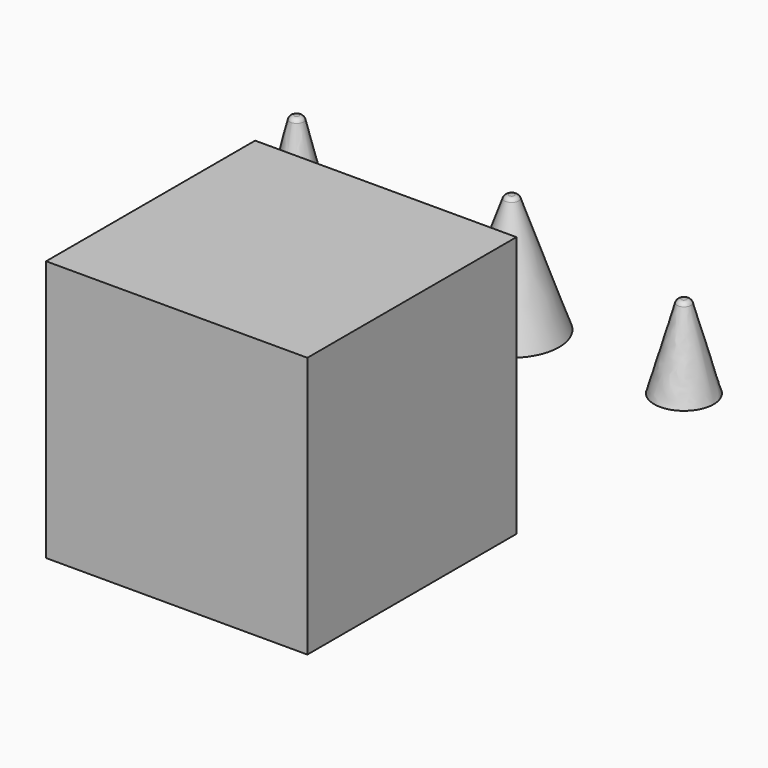
from build123d import *

# Parameters (mm, degrees)
F0_R      = 4
F4_R      = 0.5
F0_R_2    = 3
F0_R_3    = 2.5
F3_R      = 0.5
F8_R      = 0.4
F8_2_R    = 0.4
F8_3_R    = 0.4
F9_W      = 22
F9_H      = 22
F10_DEPTH = 22


with BuildPart() as f5:
    # F0 (on Top) → F5 section 0
    with BuildSketch(Plane.XY):
        Circle(F0_R)
    # F4 (on offset) → F5 section 1
    with BuildSketch(Plane.XY.offset(10)):
        Circle(F4_R)
    loft()

    # F8
    f8_edges = [f5.edges().sort_by_distance(p)[0] for p in [
        (-0.5, 0, 10),
    ]]
    fillet(f8_edges, radius=F8_R)


with BuildPart() as f6:
    # F0 (on Top) → F6 section 0
    with BuildSketch(Plane.XY):
        with Locations((-18.0996377021, 0)):
            Circle(F0_R_2)
    # F4 (on offset) → F6 section 1
    with BuildSketch(Plane.XY.offset(10)):
        with Locations((-18.1038286537, 0)):
            Circle(F4_R)
    loft()

    # F8#2
    f8_2_edges = [f6.edges().sort_by_distance(p)[0] for p in [
        (-18.603829, 0, 10),
    ]]
    fillet(f8_2_edges, radius=F8_2_R)


with BuildPart() as f7:
    # F0 (on Top) → F7 section 0
    with BuildSketch(Plane.XY):
        with Locations((14.5079502836, 0)):
            Circle(F0_R_3)
    # F3 (on offset) → F7 section 1
    with BuildSketch(Plane.XY.offset(7)):
        with Locations((14.510884881, 0)):
            Circle(F3_R)
    loft()

    # F8#3
    f8_3_edges = [f7.edges().sort_by_distance(p)[0] for p in [
        (14.010885, 0, 7),
    ]]
    fillet(f8_3_edges, radius=F8_3_R)


with BuildPart() as f10:
    # F9 (on Right) → F10 (new body)
    with BuildSketch(Plane.YZ):
        with Locations((-37.9973315299, 13.9893240426)):
            Rectangle(F9_W, F9_H)
    extrude(amount=F10_DEPTH)


solid = Compound([f5.part, f6.part, f7.part, f10.part])
